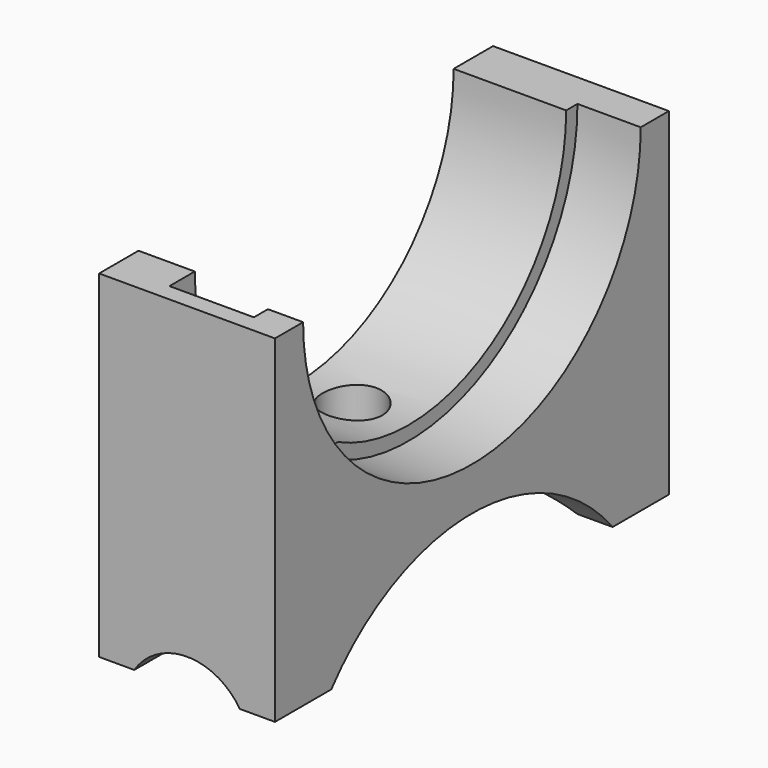
from build123d import *

# Parameters (mm, degrees)
F0_W      = 70
F0_H      = 48
F1_DEPTH  = 25
F2_R      = 30
F3_DEPTH  = 9
F4_R      = 28
F5_DEPTH  = 25
F6_R      = 4.25
F7_DEPTH  = 25
F9_DEPTH  = 25
F11_DEPTH = 25
F13_DEPTH = 75


with BuildPart() as f1:
    # F0 (on Right) → F1 (new body)
    with BuildSketch(Plane.YZ):
        Rectangle(F0_W, F0_H)
    extrude(amount=F1_DEPTH)

    # F2 (on face) → F3 (cut)
    with BuildSketch(Plane.YZ.offset(25)):
        with Locations((0, 24)):
            Circle(F2_R)
    extrude(amount=-F3_DEPTH, mode=Mode.SUBTRACT)

    # F4 (on face) → F5 (cut)
    with BuildSketch(Plane.YZ.offset(16)):
        with Locations((0, 24)):
            Circle(F4_R)
    extrude(amount=-F5_DEPTH, mode=Mode.SUBTRACT)

    # F6 (on face) → F7 (cut)
    with BuildSketch(Plane(origin=(0, 0, -24), x_dir=(1, 0, 0), z_dir=(0, 0, -1))):
        with Locations((8, 0)):
            Circle(F6_R)
    extrude(amount=-F7_DEPTH, mode=Mode.SUBTRACT)

    # F8 (on face) → F9 (cut)
    with BuildSketch(Plane.XY.offset(24)):
        Polygon((8, -28), (8, -32.5), (20, -32.5), (20, -27.5), (20, -10), (8, -10), align=None)
    extrude(amount=-F9_DEPTH, mode=Mode.SUBTRACT)

    # F10 (on face) → F11 (cut)
    with BuildSketch(Plane.YZ.offset(25)):
        with BuildLine():
            Line((25, -30.528549), (25, -24))
            ThreePointArc((25, -24), (0, -12.129655), (-25, -24))
            Line((-25, -24), (-25, -30.528549))
            Line((-25, -30.528549), (25, -30.528549))
        make_face()
    extrude(amount=-F11_DEPTH, mode=Mode.SUBTRACT)

    # F12 (on face) → F13 (cut)
    with BuildSketch(Plane.XZ.offset(35)):
        with BuildLine():
            Line((20, -27.683428), (20, -24))
            ThreePointArc((20, -24), (12.5, -19.900788), (5, -24))
            Line((5, -24), (5, -27.683428))
            Line((5, -27.683428), (20, -27.683428))
        make_face()
    extrude(amount=-F13_DEPTH, mode=Mode.SUBTRACT)


solid = f1.part
